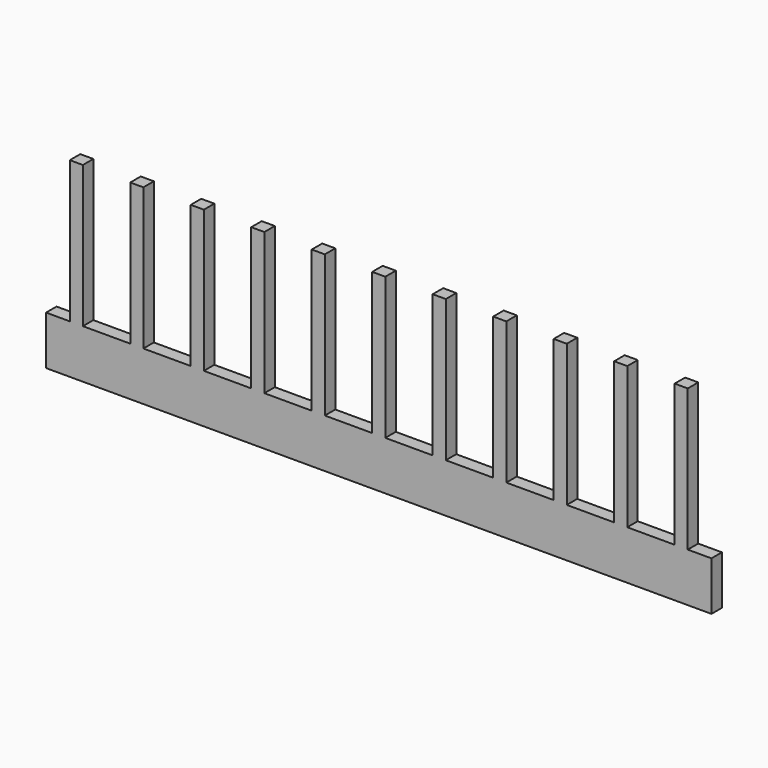
from build123d import *

# Parameters (mm, degrees)
SKETCH006_W            = 30.48
SKETCH006_H            = 8.74
PAD014_DEPTH           = 0.3
SKETCH007_W            = 1.94
SKETCH007_H            = 12.4
POCKET002_DEPTH        = 0.301
POCKET002_DEPTH_BACK   = 0.301
LINEARPATTERN002_COUNT = 12
LINEARPATTERN002_PITCH = 2.770909
LINEARPATTERN003_COUNT = 12
LINEARPATTERN003_PITCH = 2.770909


with BuildPart() as part:
    # Sketch006 → Pad014 (new body, symmetric)
    with BuildSketch(Plane.XZ):
        with Locations((0, 4.37)):
            Rectangle(SKETCH006_W, SKETCH006_H)
    extrude(amount=PAD014_DEPTH, both=True)

    # Sketch007 → Pocket002 (cut, two sides)
    with BuildSketch(Plane.XZ) as pocket002_sk:
        with Locations((-1.27, 8.44)):
            Rectangle(SKETCH007_W, SKETCH007_H)
        with Locations((1.27, 8.44)):
            Rectangle(SKETCH007_W, SKETCH007_H)
    pocket002 = extrude(amount=-POCKET002_DEPTH, mode=Mode.SUBTRACT) + extrude(pocket002_sk.sketch, amount=POCKET002_DEPTH_BACK, mode=Mode.SUBTRACT)

    # LinearPattern002: Pocket002 ×12
    with Locations(*[(i * LINEARPATTERN002_PITCH, 0, 0) for i in range(1, LINEARPATTERN002_COUNT)]):
        add(pocket002, mode=Mode.SUBTRACT)

    # LinearPattern003: Pocket002 ×12
    with Locations(*[(-i * LINEARPATTERN003_PITCH, 0, 0) for i in range(1, LINEARPATTERN003_COUNT)]):
        add(pocket002, mode=Mode.SUBTRACT)


with BuildPart() as part_1:
    # Body022 placement: moved
    add(part.part.moved(Location((0, -8, 0))))


with BuildPart() as part_2:
    # Body025 placement: moved
    add(part_1.part.moved(Location((0, 16, 0))))


solid = part_2.part
